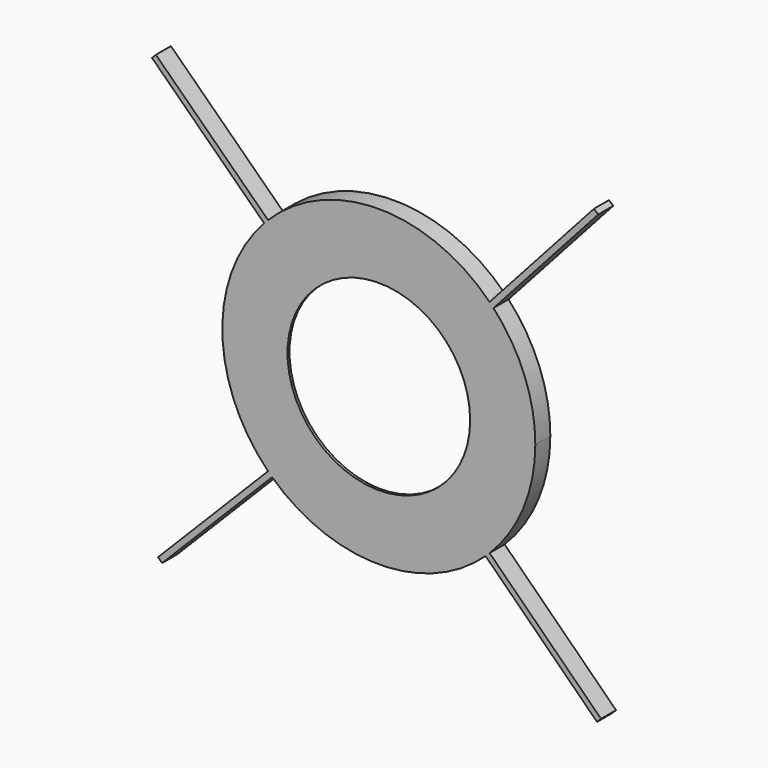
from build123d import *

# Parameters (mm, degrees)
F0_W     = 70.7883353009
F0_H     = 70.6329355565
F1_DEPTH = 6
F2_R     = 49.1
F3_DEPTH = 5.2
F4_R     = 29.1804773136
F5_DEPTH = 25


with BuildPart() as f1:
    # F0 (on Front) → F1 (new body)
    with BuildSketch(Plane.XZ):
        with BuildLine():
            ThreePointArc((35.3941676505, -35.3164677782), (46.204482372, -19.1087887826), (50, 0))
            ThreePointArc((50, 0), (46.5418074661, 18.2718405693), (36.6455936884, 34.0161794331))
            ThreePointArc((36.6455936884, 34.0161794331), (36.0257476104, 34.6719700784), (35.3941676505, 35.3164677782))
            Line((35.3941676505, 35.3164677782), (35.3941676505, -35.3164677782))
        make_face()
        with BuildLine():
            ThreePointArc((35.3941676505, 35.3164677782), (36.0257476104, 34.6719700784), (36.6455936884, 34.0161794331))
            Line((36.6455936884, 34.0161794331), (70.0867437781, 71.187263365))
            Line((70.0867437781, 71.187263365), (68.7485847566, 72.3911447683))
            Line((68.7485847566, 72.3911447683), (35.3941676505, 35.3164677782))
        make_face()
        with BuildLine():
            Line((70.9903525089, -70.3661009157), (35.3941676505, -35.3164677782))
            ThreePointArc((35.3941676505, -35.3164677782), (34.7525403407, -35.9480310986), (34.0996454535, -36.5679392357))
            Line((34.0996454535, -36.5679392357), (69.7274450602, -71.6487017016))
            Line((69.7274450602, -71.6487017016), (70.9903525089, -70.3661009157))
        make_face()
        with BuildLine():
            ThreePointArc((34.0996454535, -36.5679392357), (34.7525403407, -35.9480310986), (35.3941676505, -35.3164677782))
            Line((35.3941676505, -35.3164677782), (-35.3941676505, -35.3164677782))
            ThreePointArc((-35.3941676505, -35.3164677782), (-34.7527012082, -35.9478755803), (-34.0999727359, -36.5676340418))
            ThreePointArc((-34.0999727359, -36.5676340418), (-0.0002237505, -49.9999999995), (34.0996454535, -36.5679392357))
        make_face()
        Rectangle(F0_W, F0_H)
        with BuildLine():
            Line((-35.3941676505, 35.3164677782), (35.3941676505, 35.3164677782))
            ThreePointArc((35.3941676505, 35.3164677782), (0, 50), (-35.3941676505, 35.3164677782))
        make_face()
        with BuildLine():
            ThreePointArc((-36.6424362928, 34.0195805754), (-49.9918991162, -0.9000126416), (-35.3941676505, -35.3164677782))
            Line((-35.3941676505, -35.3164677782), (-35.3941676505, 35.3164677782))
            ThreePointArc((-35.3941676505, 35.3164677782), (-36.0241385188, 34.6736419197), (-36.6424362928, 34.0195805754))
        make_face()
        with BuildLine():
            ThreePointArc((-34.0999727359, -36.5676340418), (-34.7527012082, -35.9478755803), (-35.3941676505, -35.3164677782))
            Line((-35.3941676505, -35.3164677782), (-70.5225346289, -70.8973310818))
            Line((-70.5225346289, -70.8973310818), (-69.24162355, -72.161952293))
            Line((-69.24162355, -72.161952293), (-34.0999727359, -36.5676340418))
        make_face()
        with BuildLine():
            ThreePointArc((-36.6424362928, 34.0195805754), (-36.0241385188, 34.6736419197), (-35.3941676505, 35.3164677782))
            Line((-35.3941676505, 35.3164677782), (-71.2271848866, 70.1739048632))
            Line((-71.2271848866, 70.1739048632), (-72.4822921078, 68.8836700538))
            Line((-72.4822921078, 68.8836700538), (-36.6424362928, 34.0195805754))
        make_face()
    extrude(amount=F1_DEPTH)

    # F2 (on Front) → F3 (cut)
    with BuildSketch(Plane.XZ):
        Circle(F2_R)
    extrude(amount=F3_DEPTH, mode=Mode.SUBTRACT)

    # F4 (on Front) → F5 (cut)
    with BuildSketch(Plane.XZ):
        Circle(F4_R)
    extrude(amount=F5_DEPTH, mode=Mode.SUBTRACT)


solid = f1.part
